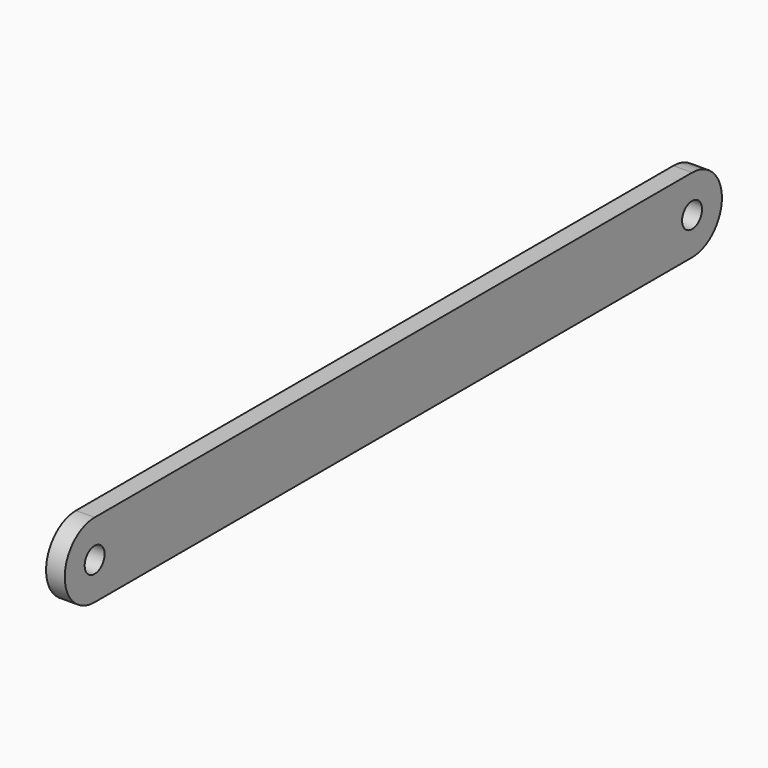
from build123d import *

# Parameters (mm, degrees)
F0_R     = 6.35
F1_DEPTH = 4.7625


with BuildPart() as f1:
    # F0 (on Right) → F1 (new body, symmetric)
    with BuildSketch(Plane.YZ):
        with BuildLine():
            Line((-217.446472, -20.817392), (163.553528, -20.817392))
            ThreePointArc((163.553528, -20.817392), (182.603528, -1.767392), (163.553528, 17.282608))
            Line((163.553528, 17.282608), (-217.446472, 17.282608))
            ThreePointArc((-217.446472, 17.282608), (-236.496472, -1.767392), (-217.446472, -20.817392))
        make_face()
        with Locations((-217.446472, -1.767392)):
            Circle(F0_R, mode=Mode.SUBTRACT)
        with Locations((163.553528, -1.767392)):
            Circle(F0_R, mode=Mode.SUBTRACT)
    extrude(amount=F1_DEPTH, both=True)


solid = f1.part
